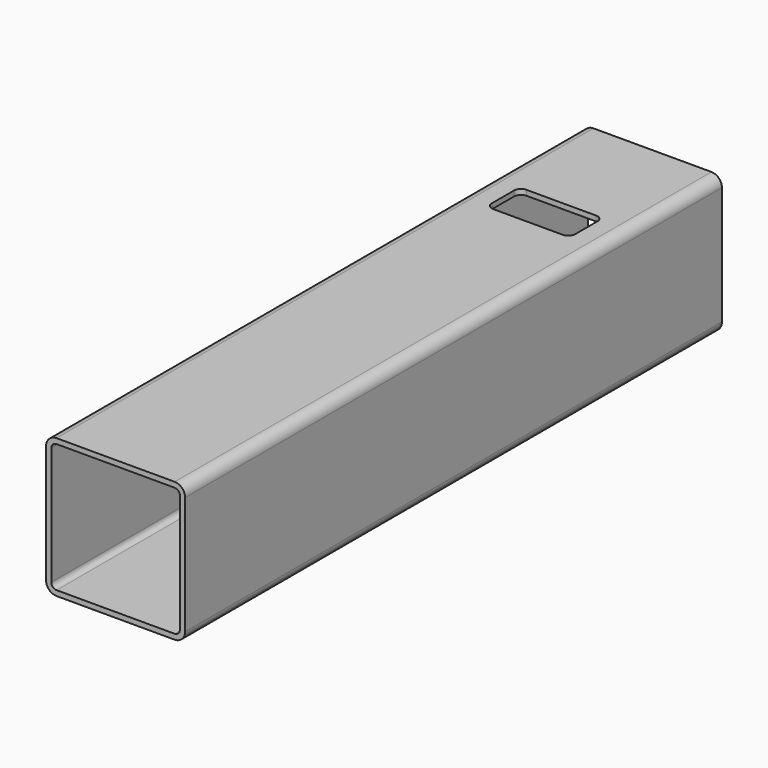
from build123d import *

# Parameters (mm, degrees)
F1_DEPTH = 612.95
F3_DEPTH = 127.001


with BuildPart() as f1:
    # F0 (on Front) → F1 (new body)
    with BuildSketch(Plane.XZ):
        with BuildLine():
            Line((-53.95, -63.5), (53.95, -63.5))
            ThreePointArc((53.95, -63.5), (60.70287, -60.70287), (63.5, -53.95))
            Line((63.5, -53.95), (63.5, 53.95))
            ThreePointArc((63.5, 53.95), (60.70287, 60.70287), (53.95, 63.5))
            Line((53.95, 63.5), (-53.95, 63.5))
            ThreePointArc((-53.95, 63.5), (-60.70287, 60.70287), (-63.5, 53.95))
            Line((-63.5, 53.95), (-63.5, -53.95))
            ThreePointArc((-63.5, -53.95), (-60.70287, -60.70287), (-53.95, -63.5))
        make_face()
        with BuildLine():
            ThreePointArc((58.7255, -53.9505), (57.326935, -57.326935), (53.9505, -58.7255))
            Line((53.9505, -58.7255), (-53.9505, -58.7255))
            ThreePointArc((-53.9505, -58.7255), (-57.326935, -57.326935), (-58.7255, -53.9505))
            Line((-58.7255, -53.9505), (-58.7255, 53.9505))
            ThreePointArc((-58.7255, 53.9505), (-57.326935, 57.326935), (-53.9505, 58.7255))
            Line((-53.9505, 58.7255), (53.9505, 58.7255))
            ThreePointArc((53.9505, 58.7255), (57.326935, 57.326935), (58.7255, 53.9505))
            Line((58.7255, 53.9505), (58.7255, -53.9505))
        make_face(mode=Mode.SUBTRACT)
    extrude(amount=F1_DEPTH)

    # F2 (on face) → F3 (cut, through all)
    with BuildSketch(Plane.XY.offset(63.5)):
        with BuildLine():
            Line((-31.75, -142.1), (31.75, -142.1))
            ThreePointArc((31.75, -142.1), (36.240128, -140.240128), (38.1, -135.75))
            Line((38.1, -135.75), (38.1, -110.35))
            ThreePointArc((38.1, -110.35), (36.240128, -105.859872), (31.75, -104))
            Line((31.75, -104), (-31.75, -104))
            ThreePointArc((-31.75, -104), (-36.240128, -105.859872), (-38.1, -110.35))
            Line((-38.1, -110.35), (-38.1, -135.75))
            ThreePointArc((-38.1, -135.75), (-36.240128, -140.240128), (-31.75, -142.1))
        make_face()
    extrude(amount=-F3_DEPTH, mode=Mode.SUBTRACT)


solid = f1.part
